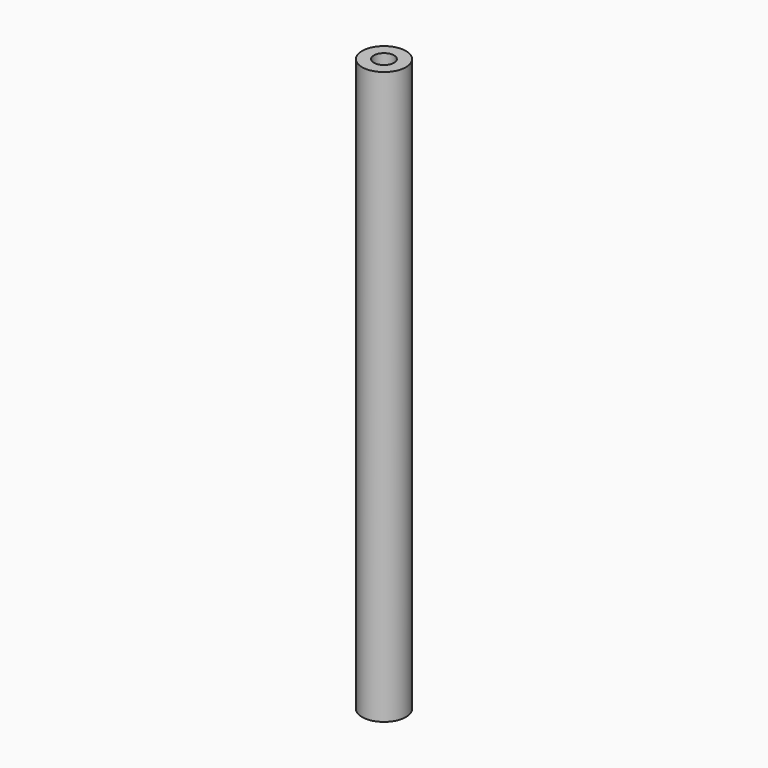
from build123d import *


with BuildPart() as f1:
    # F0 (on Right) → F1 (revolve)
    with BuildSketch(Plane.YZ):
        Polygon((-22.6922, 45.115322), (-24.665434, 45.115322), (-24.665434, -49.779329), (-22.6922, -49.779329), (-22.6922, 43.142088), align=None)
    revolve(axis=Axis((0, -21.021834, 44.039011), (0, 0, -1)))


solid = f1.part
